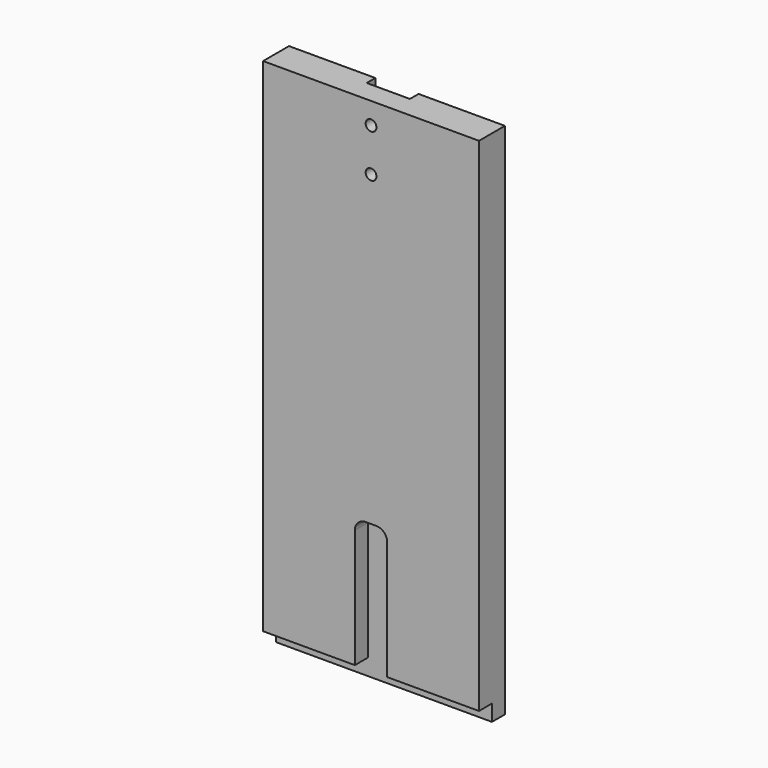
from build123d import *

# Parameters (mm, degrees)
F0_W     = 127
F0_H     = 304.8
F1_DEPTH = 19.05
F3_DEPTH = 6.35
F4_R     = 3.175
F5_DEPTH = 12.701
F6_W     = 25.4
F6_H     = 9.525
F7_DEPTH = 127.001
F8_W     = 19.05
F8_H     = 76.2
F9_DEPTH = 9.525
F10_R    = 6.35


with BuildPart() as f1:
    # F0 (on Front) → F1 (new body)
    with BuildSketch(Plane.XZ):
        Rectangle(F0_W, F0_H)
    extrude(amount=F1_DEPTH)

    # F2 (on face) → F3 (cut)
    with BuildSketch(Plane(origin=(0, 0, 0), x_dir=(-1, 0, 0), z_dir=(0, 1, 0))):
        with BuildLine():
            Line((12.7, 114.3), (12.7, 152.4))
            ThreePointArc((12.7, 152.4), (0, 165.1), (-12.7, 152.4))
            Line((-12.7, 152.4), (-12.7, 114.3))
            ThreePointArc((-12.7, 114.3), (0, 101.6), (12.7, 114.3))
        make_face()
    extrude(amount=-F3_DEPTH, mode=Mode.SUBTRACT)

    # F4 (on face) → F5 (cut, through all)
    with BuildSketch(Plane(origin=(0, -6.35, 0), x_dir=(-1, 0, 0), z_dir=(0, 1, 0))):
        with Locations((0, 114.3)):
            Circle(F4_R)
        with Locations((0, 139.7)):
            Circle(F4_R)
    extrude(amount=-F5_DEPTH, mode=Mode.SUBTRACT)

    # F6 (on face) → F7 (cut, through all)
    with BuildSketch(Plane(origin=(-63.5, 0, 0), x_dir=(0, -1, 0), z_dir=(-1, 0, 0))):
        with Locations((22.225, -147.6375)):
            Rectangle(F6_W, F6_H)
    extrude(amount=-F7_DEPTH, mode=Mode.SUBTRACT)

    # F8 (on face) → F9 (cut)
    with BuildSketch(Plane.XZ.offset(19.05)):
        with Locations((0, -104.775)):
            Rectangle(F8_W, F8_H)
    extrude(amount=-F9_DEPTH, mode=Mode.SUBTRACT)

    # F10
    f10_edges = [f1.edges().sort_by_distance(p)[0] for p in [
        (-9.525, -14.2875, -66.675),
        (9.525, -14.2875, -66.675),
    ]]
    fillet(f10_edges, radius=F10_R)


with BuildPart() as f11_1:
    # F11: copy of F1
    add(f1.part)


solid = f1.part
